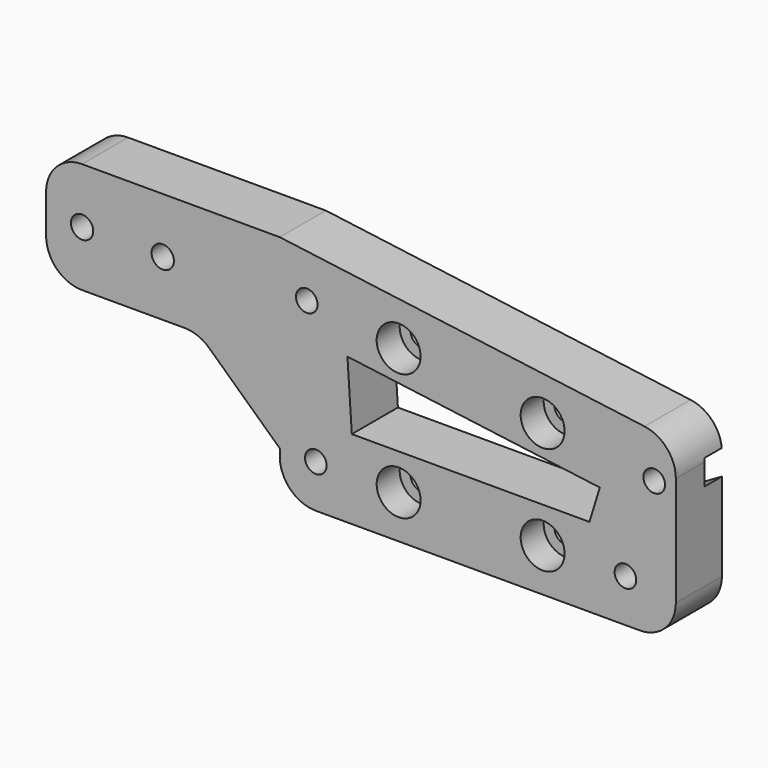
from build123d import *

# Parameters (mm, degrees)
F0_R     = 1.5
F0_R_2   = 1.55
F1_DEPTH = 8
F3_DEPTH = 3
F4_R     = 1.55
F5_DEPTH = 8.001
F6_R     = 3.05
F7_DEPTH = 4
F8_R     = 5


with BuildPart() as f1:
    # F0 (on Front) → F1 (new body)
    with BuildSketch(Plane.XZ):
        Polygon((55, -6), (55, 18.586979), (0, 25.823821), (-32.46, 25.823821), (-32.46, 18.123821), (-32.46, 10.423821), (-11.26, 10.423821), (0, 0), (0, -6), align=None)
        with Locations((5, 0)):
            Circle(F0_R, mode=Mode.SUBTRACT)
        with Locations((48, 0)):
            Circle(F0_R, mode=Mode.SUBTRACT)
        Polygon((10, 5), (9.393527, 14.28), (44.444109, 9.668081), (43, 5), align=None, mode=Mode.SUBTRACT)
        with Locations((-27.46, 18.123821)):
            Circle(F0_R_2, mode=Mode.SUBTRACT)
        with Locations((-16.26, 18.123821)):
            Circle(F0_R_2, mode=Mode.SUBTRACT)
        with Locations((3.74, 19.28)):
            Circle(F0_R, mode=Mode.SUBTRACT)
        with Locations((52, 12.93)):
            Circle(F0_R, mode=Mode.SUBTRACT)
    extrude(amount=F1_DEPTH)

    # F2 (on face) → F3 (cut)
    with BuildSketch(Plane(origin=(0, 0, 0), x_dir=(-1, 0, 0), z_dir=(0, 1, 0))):
        Polygon((-49, 11.197949), (-49, 14.662051), (-52, 16.394102), (-55, 14.662051), (-55, 11.197949), (-52, 9.465898), align=None)
        Polygon((-45, -1.732051), (-45, 1.732051), (-48, 3.464102), (-51, 1.732051), (-51, -1.732051), (-48, -3.464102), align=None)
        Polygon((-8, 1.732051), (-8, -1.732051), (-5, -3.464102), (-2, -1.732051), (-2, 1.732051), (-5, 3.464102), align=None)
        Polygon((-6.74, 21.012051), (-6.74, 17.547949), (-3.74, 15.815898), (-0.74, 17.547949), (-0.74, 21.012051), (-3.74, 22.744102), align=None)
    extrude(amount=-F3_DEPTH, mode=Mode.SUBTRACT)

    # F4 (on face) → F5 (cut, through all)
    with BuildSketch(Plane.XZ.offset(8)):
        with Locations((16.5, 0)):
            Circle(F4_R)
        with Locations((36.5, 0)):
            Circle(F4_R)
        with Locations((16.5, 17.601053)):
            Circle(F4_R)
        with Locations((36.5, 14.969474)):
            Circle(F4_R)
    extrude(amount=-F5_DEPTH, mode=Mode.SUBTRACT)

    # F6 (on face) → F7 (cut)
    with BuildSketch(Plane.XZ.offset(8)):
        with Locations((16.5, 0)):
            Circle(F6_R)
        with Locations((36.5, 0)):
            Circle(F6_R)
        with Locations((16.5, 17.601053)):
            Circle(F6_R)
        with Locations((36.5, 14.969474)):
            Circle(F6_R)
    extrude(amount=-F7_DEPTH, mode=Mode.SUBTRACT)

    # F8
    f8_edges = [f1.edges().sort_by_distance(p)[0] for p in [
        (-32.46, -4, 25.823821),
        (-32.46, -4, 10.423821),
        (-11.26, -4, 10.423821),
        (0, -4, -6),
        (55, -4, -6),
        (55, -4, 18.586979),
    ]]
    fillet(f8_edges, radius=F8_R)


solid = f1.part
